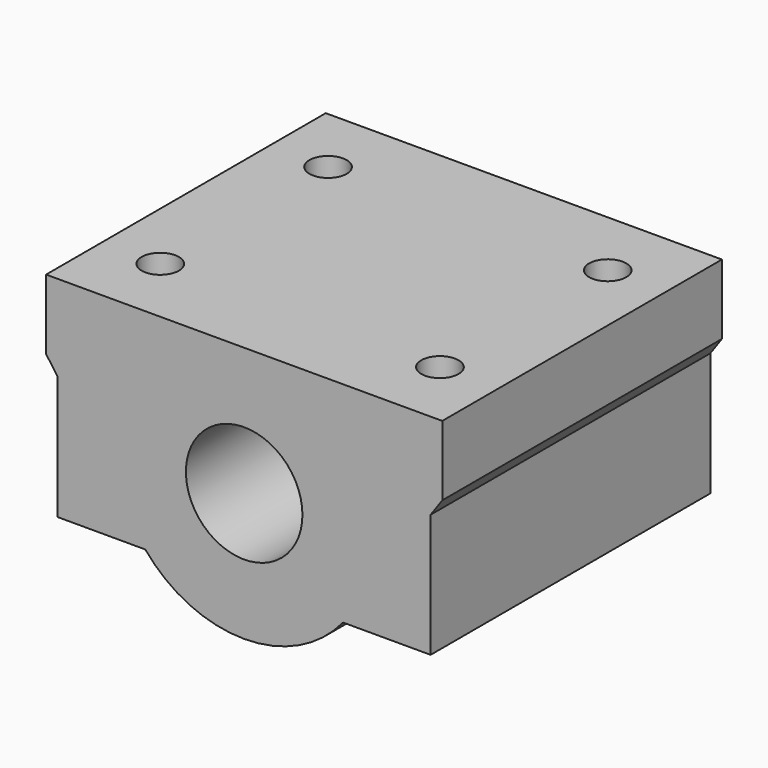
from build123d import *

# Parameters (mm, degrees)
F0_R     = 5
F1_DEPTH = 15
F2_R     = 1.6
F3_DEPTH = 25


with BuildPart() as f1:
    # F0 (on Front) → F1 (new body, symmetric)
    with BuildSketch(Plane.XZ):
        with BuildLine():
            Line((-16, -7), (-8.485281, -7))
            ThreePointArc((-8.485281, -7), (0, -11), (8.485281, -7))
            Line((8.485281, -7), (16, -7))
            Line((16, -7), (16, 3.584423))
            Line((16, 3.584423), (17, 5))
            Line((17, 5), (17, 11))
            Line((17, 11), (0, 11))
            Line((0, 11), (-17, 11))
            Line((-17, 11), (-17, 5))
            Line((-17, 5), (-16, 3.584423))
            Line((-16, 3.584423), (-16, -7))
        make_face()
        Circle(F0_R, mode=Mode.SUBTRACT)
    extrude(amount=F1_DEPTH, both=True)

    # F2 (on face) → F3 (cut)
    with BuildSketch(Plane.XY.offset(11)):
        with Locations((-12, -9)):
            Circle(F2_R)
        with Locations((12, -9)):
            Circle(F2_R)
        with Locations((12, 9)):
            Circle(F2_R)
        with Locations((-12, 9)):
            Circle(F2_R)
    extrude(amount=-F3_DEPTH, mode=Mode.SUBTRACT)


solid = f1.part
